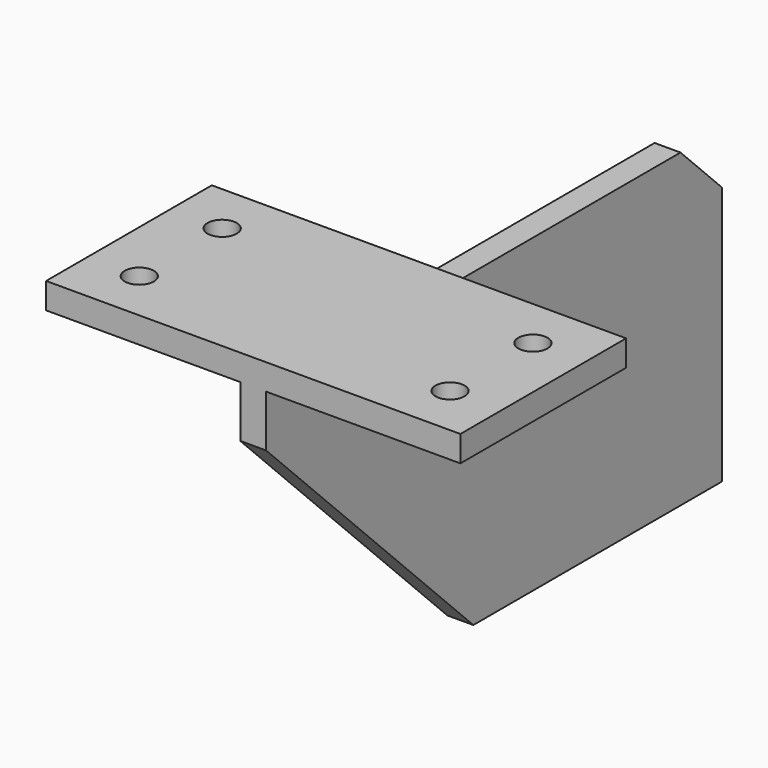
from build123d import *

# Parameters (mm, degrees)
F0_W     = 203.2
F0_H     = 101.6
F0_R     = 7.14375
F1_DEPTH = 12.7
F2_W     = 12.7
F2_H     = 279.4
F3_DEPTH = 152.4
F5_DEPTH = 107.951
F6_SIZE  = 25.4


with BuildPart() as f1:
    # F0 (on Top) → F1 (new body)
    with BuildSketch(Plane.XY):
        Rectangle(F0_W, F0_H)
        with Locations((-76.2, -25.4)):
            Circle(F0_R, mode=Mode.SUBTRACT)
        with Locations((76.2, -25.4)):
            Circle(F0_R, mode=Mode.SUBTRACT)
        with Locations((-76.2, 25.4)):
            Circle(F0_R, mode=Mode.SUBTRACT)
        with Locations((76.2, 25.4)):
            Circle(F0_R, mode=Mode.SUBTRACT)
    extrude(amount=F1_DEPTH)

    # F2 (on face) → F3 (join)
    with BuildSketch(Plane(origin=(0, 0, 0), x_dir=(1, 0, 0), z_dir=(0, 0, -1))):
        with Locations((0, -88.9)):
            Rectangle(F2_W, F2_H)
    extrude(amount=F3_DEPTH)

    # F4 (on face) → F5 (cut, through all)
    with BuildSketch(Plane(origin=(-6.35, 0, 0), x_dir=(0, -1, 0), z_dir=(-1, 0, 0))):
        Polygon((50.8, -25.4), (-76.2, -152.4), (50.8, -152.4), align=None)
    extrude(amount=-F5_DEPTH, mode=Mode.SUBTRACT)

    # F6
    f6_edges = [f1.edges().sort_by_distance(p)[0] for p in [
        (0, 228.6, 0),
    ]]
    chamfer(f6_edges, length=F6_SIZE)


solid = f1.part
